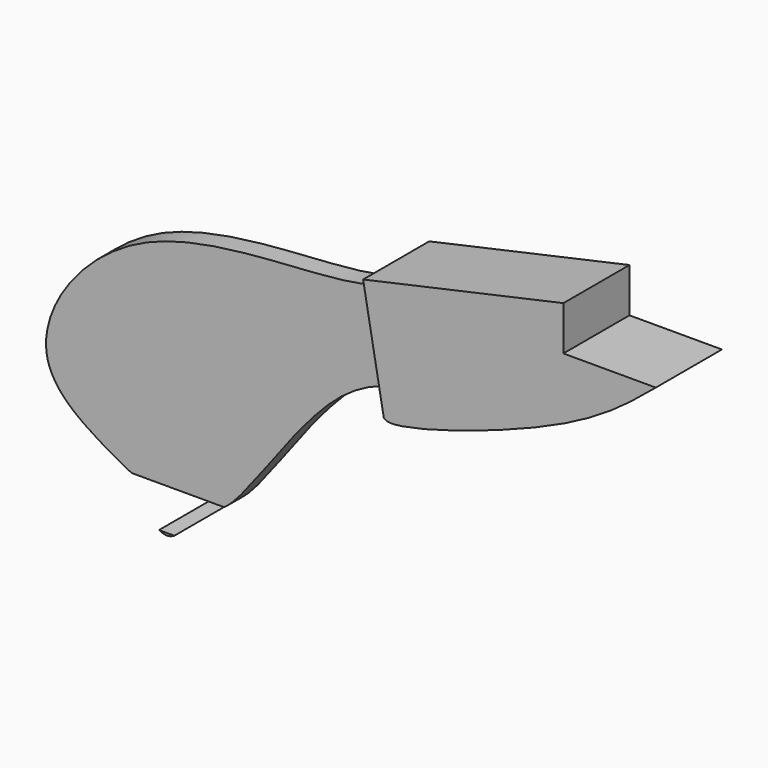
from build123d import *

# Parameters (mm, degrees)
F1_DEPTH = 8
F2_DEPTH = 2


with BuildPart() as f1:
    # F0 (on Front) → F1 (new body)
    with BuildSketch(Plane.XZ):
        with BuildLine():
            add(Edge.make_bspline(
                [(20.1446022838, 0), (17.7230486212, -2.0236935066), (12.2949855821, -6.5599282783), (-3.4915069167, -11.519306356), (-5.5957227014, -11.3779697567)],
                knots=[0, 0, 0, 0, 0.3976486487, 0.8913541607, 0.8913541607, 0.8913541607, 0.8913541607], degree=3))
            Line((20.1446022838, 0), (11.1914454028, 0))
            Line((11.1914454028, 0), (11.1914454028, 4.2900540866))
            Line((11.1914454028, 4.2900540866), (-8.207058534, 0))
            Line((-8.207058534, 0), (-6.2037032095, -11.1569330223))
            add(Edge.make_bspline(
                [(-5.5957227014, -11.3779697567), (-5.9179971815, -11.3563231274), (-6.0845258891, -11.2669270129), (-6.2037032095, -11.1569330223)],
                knots=[0.8913541607, 0.8913541607, 0.8913541607, 0.8913541607, 0.9669684054, 0.9669684054, 0.9669684054, 0.9669684054], degree=3))
        make_face()
    extrude(amount=F1_DEPTH)


with BuildPart() as f1b:
    # F0 (on Front) → F1, piece 2 (new body)
    with BuildSketch(Plane.XZ):
        with BuildLine():
            add(Edge.make_bspline(
                [(-26.4866650105, -27.7939904481), (-27.1214634238, -28.17702879), (-27.5499933026, -27.9856992329), (-27.9783869921, -27.7939904481)],
                knots=[0.8576413569, 0.8576413569, 0.8576413569, 0.8576413569, 0.9999060074, 0.9999060074, 0.9999060074, 0.9999060074], degree=3))
            Line((-26.4866650105, -27.7939904481), (-27.9783869921, -27.7939904481))
        make_face()
    extrude(amount=F1_DEPTH)


with BuildPart() as f2:
    # F0 (on Front) → F2 (new body)
    with BuildSketch(Plane.XZ):
        with BuildLine():
            add(Edge.make_bspline(
                [(-5.5957227014, -11.3779697567), (-8.9176387041, -11.761884659), (-16.3783046364, -12.6241162234), (-24.3637327392, -26.5130098407), (-26.4866650105, -27.7939904481)],
                knots=[0, 0, 0, 0, 0.3818710788, 0.8576413569, 0.8576413569, 0.8576413569, 0.8576413569], degree=3))
            add(Edge.make_bspline(
                [(-5.5957227014, -11.3779697567), (-5.9179971815, -11.3563231274), (-6.0845258891, -11.2669270129), (-6.2037032095, -11.1569330223)],
                knots=[0.8913541607, 0.8913541607, 0.8913541607, 0.8913541607, 0.9669684054, 0.9669684054, 0.9669684054, 0.9669684054], degree=3))
            Line((-6.2037032095, -11.1569330223), (-8.207058534, 0))
            add(Edge.make_bspline(
                [(-8.207058534, 0), (-8.8513348213, -1.5390488522), (-10.8468470095, -6.3059335005), (-35.3507202157, -3.3118054886), (-47.7065122281, -21.2305266581), (-39.2752425285, -25.74263409), (-35.4421027005, -27.7939904481)],
                knots=[0, 0, 0, 0, 0.1581557639, 0.48985468, 0.768070716, 1, 1, 1, 1], degree=3))
            Line((-35.4421027005, -27.7939904481), (-27.9783869921, -27.7939904481))
            Line((-27.9783869921, -27.7939904481), (-26.4866650105, -27.7939904481))
        make_face()
    extrude(amount=F2_DEPTH)


solid = Compound([f1.part, f1b.part, f2.part])
